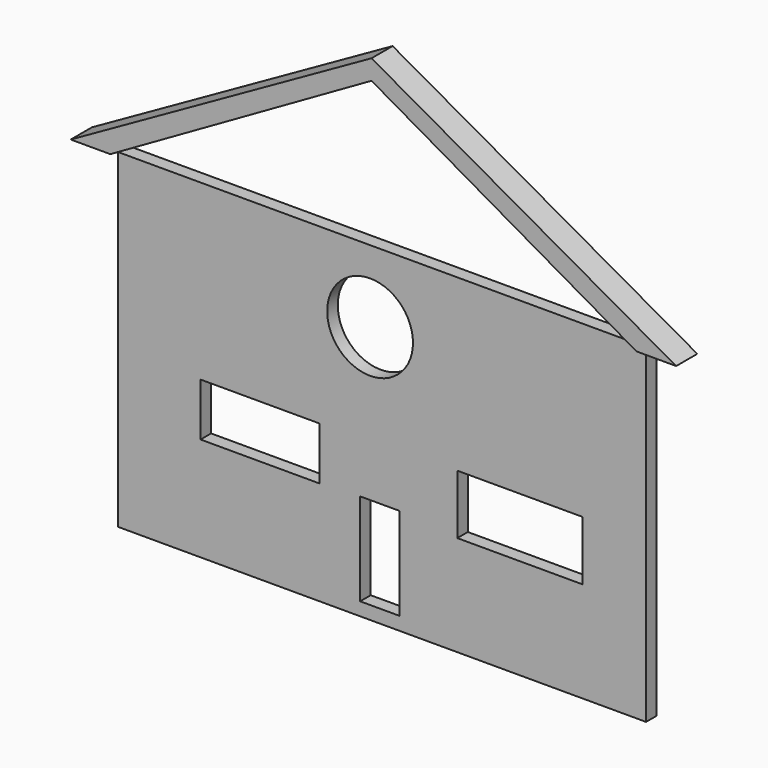
from build123d import *

# Parameters (mm, degrees)
F1_DEPTH = 25.4
F0_W     = 228.6
F0_H     = 101.6
F0_W_2   = 241.3
F0_H_2   = 114.3
F0_R     = 82.55
F2_DEPTH = 25.4


with BuildPart() as f1:
    # F0 (on Front) → F1 (new body)
    with BuildSketch(Plane.XZ):
        Polygon((-691.140294, -133.456394), (-614.940294, -133.456394), (-112.294808, 154.353469), (-112.294808, 192.453469), align=None)
        Polygon((-112.294808, 192.453469), (-112.294808, 154.353469), (397.766284, -138.301879), (473.966284, -138.301879), align=None)
    extrude(amount=F1_DEPTH)

    # F0 (on Front) + F1_face (on face) → F2 (join)
    with BuildSketch(Plane.XZ):
        Polygon((-112.294808, -141.935989), (-620.294808, -141.935989), (-620.294808, -751.535989), (-154.505461, -751.535989), (-154.505461, -573.735989), (-78.305461, -573.735989), (-78.305461, -751.535989), (395.705192, -751.535989), (395.705192, -141.935989), align=None)
        with Locations((-347.24948, -526.518311)):
            Rectangle(F0_W, F0_H, mode=Mode.SUBTRACT)
        with Locations((153.034674, -526.518311)):
            Rectangle(F0_W_2, F0_H_2, mode=Mode.SUBTRACT)
        with Locations((-135.372773, -280.761659)):
            Circle(F0_R, mode=Mode.SUBTRACT)
        Polygon((-154.505461, -751.535989), (-620.294808, -751.535989), (-620.294808, -776.935989), (395.705192, -776.935989), (395.705192, -751.535989), (-78.305461, -751.535989), align=None)
        Polygon((-691.140294, -133.456394), (-614.940294, -133.456394), (-112.294808, 154.353469), (-112.294808, 192.453469), align=None)
        Polygon((-112.294808, 192.453469), (-112.294808, 154.353469), (397.766284, -138.301879), (473.966284, -138.301879), align=None)
    with BuildSketch(Plane(origin=(-108.310702, -25.4, 15.67611), x_dir=(1, 0, 0), z_dir=(0, -1, 0))):
        Polygon((-3.984106, 176.777359), (-582.829592, -149.132504), (-506.629592, -149.132504), (-3.984106, 138.677359), (506.076986, -153.977989), (582.276986, -153.977989), align=None)
    extrude(amount=F2_DEPTH)


solid = f1.part
